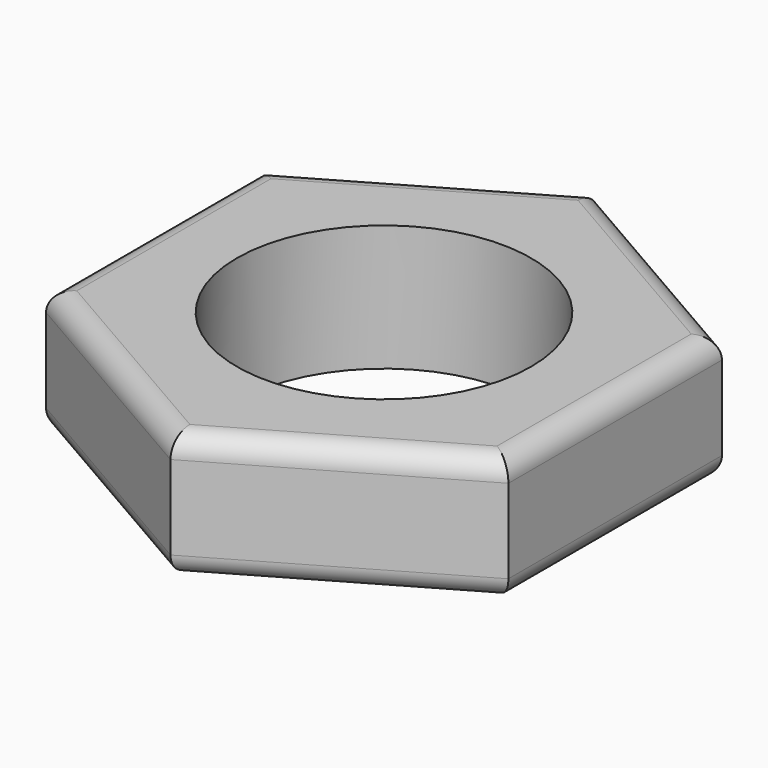
from build123d import *

# Parameters (mm, degrees)
F0_R     = 3.5
F1_DEPTH = 3
F2_R     = 0.5
F3_R     = 0.5


with BuildPart() as f1:
    # F0 (on Top) → F1 (new body)
    with BuildSketch(Plane.XY):
        Polygon((5.5, -3.175426), (5.5, 3.175426), (0, 6.350853), (-5.5, 3.175426), (-5.5, -3.175426), (0, -6.350853), align=None)
        Circle(F0_R, mode=Mode.SUBTRACT)
    extrude(amount=F1_DEPTH)

    # F2
    f2_edges = [f1.edges().sort_by_distance(p)[0] for p in [
        (2.75, -4.76314, 3),
        (-2.75, -4.76314, 3),
        (-2.75, 4.76314, 3),
        (-5.5, 0, 3),
        (5.5, 0, 3),
        (2.75, 4.76314, 3),
    ]]
    fillet(f2_edges, radius=F2_R)

    # F3
    f3_edges = [f1.edges().sort_by_distance(p)[0] for p in [
        (2.75, -4.76314, 0),
        (-2.75, -4.76314, 0),
        (-2.75, 4.76314, 0),
        (-5.5, 0, 0),
        (2.75, 4.76314, 0),
        (5.5, 0, 0),
    ]]
    fillet(f3_edges, radius=F3_R)


solid = f1.part
